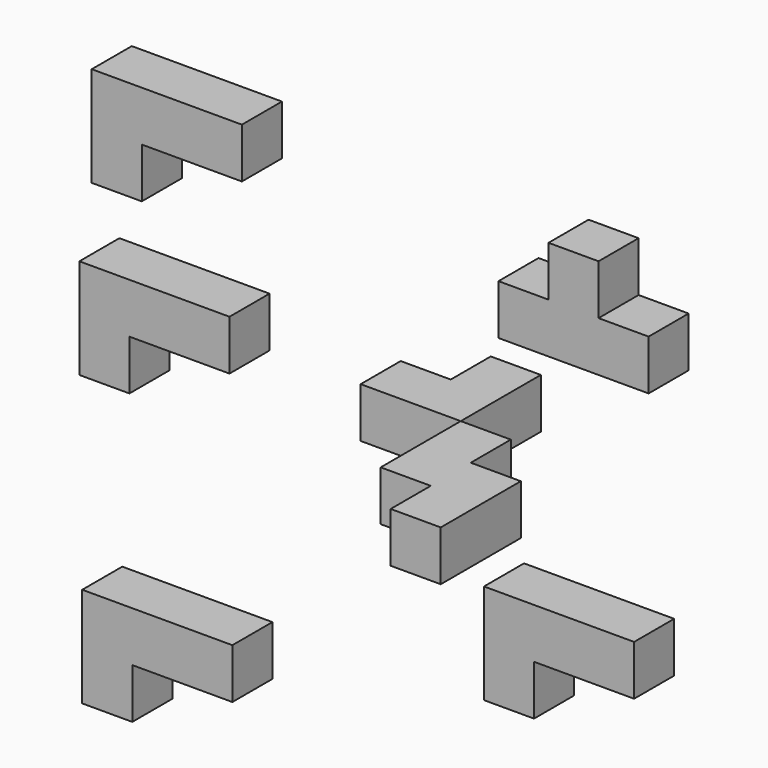
from build123d import *

# Parameters (mm, degrees)
F0_W      = 20
F0_H      = 30
F1_DEPTH  = 10
F3_W      = 20
F3_H      = 20
F4_DEPTH  = 10
F6_W      = 10
F6_H      = 10
F7_DEPTH  = 10
F2_W      = 10
F2_H      = 10
F8_DEPTH  = 10
F9_W      = 30
F9_H      = 20
F10_DEPTH = 10
F11_W     = 20
F11_H     = 10
F12_DEPTH = 10
F13_W     = 30
F13_H     = 20
F14_DEPTH = 10
F15_W     = 20
F15_H     = 10
F16_DEPTH = 10
F17_W     = 30
F17_H     = 20
F18_DEPTH = 10
F19_W     = 10
F19_H     = 10
F20_DEPTH = 10
F21_W     = 30
F21_H     = 20
F22_DEPTH = 10
F23_W     = 30
F23_H     = 20
F24_DEPTH = 10
F25_W     = 20
F25_H     = 10
F26_DEPTH = 10
F27_W     = 20
F27_H     = 10
F28_DEPTH = 10


with BuildPart() as f1:
    # F0 (on Top) → F1 (new body)
    with BuildSketch(Plane.XY):
        with Locations((10, -15)):
            Rectangle(F0_W, F0_H)
    extrude(amount=F1_DEPTH)

    # F2 (on face) → F8 (cut)
    with BuildSketch(Plane.XY.offset(10)):
        with Locations((15, -5)):
            Rectangle(F2_W, F2_H)
        with Locations((5, -25)):
            Rectangle(F2_W, F2_H)
    extrude(amount=-F8_DEPTH, mode=Mode.SUBTRACT)


with BuildPart() as f4:
    # F3 (on Top) → F4 (new body)
    with BuildSketch(Plane.XY):
        with Locations((-10, 10)):
            Rectangle(F3_W, F3_H)
    extrude(amount=F4_DEPTH)

    # F6 (on face) → F7 (cut)
    with BuildSketch(Plane.XY.offset(10)):
        with Locations((-15, 15)):
            Rectangle(F6_W, F6_H)
    extrude(amount=-F7_DEPTH, mode=Mode.SUBTRACT)


with BuildPart() as f10:
    # F9 (on Front) → F10 (new body)
    with BuildSketch(Plane.XZ):
        with Locations((-53.2064592838, 10)):
            Rectangle(F9_W, F9_H)
    extrude(amount=F10_DEPTH)

    # F11 (on face) → F12 (cut)
    with BuildSketch(Plane.XZ.offset(10)):
        with Locations((-48.2064592838, 5)):
            Rectangle(F11_W, F11_H)
    extrude(amount=-F12_DEPTH, mode=Mode.SUBTRACT)


with BuildPart() as f14:
    # F13 (on Front) → F14 (new body)
    with BuildSketch(Plane.XZ):
        with Locations((-52.6328837872, -47.5899481773)):
            Rectangle(F13_W, F13_H)
    extrude(amount=F14_DEPTH)

    # F15 (on face) → F16 (cut)
    with BuildSketch(Plane.XZ.offset(10)):
        with Locations((-47.6328837872, -52.5899481773)):
            Rectangle(F15_W, F15_H)
    extrude(amount=-F16_DEPTH, mode=Mode.SUBTRACT)


with BuildPart() as f18:
    # F17 (on Front) → F18 (new body)
    with BuildSketch(Plane.XZ):
        with Locations((30.5351590365, 43.7379798293)):
            Rectangle(F17_W, F17_H)
    extrude(amount=F18_DEPTH)

    # F19 (on face) → F20 (cut)
    with BuildSketch(Plane.XZ.offset(10)):
        with Locations((20.5351590365, 48.7379798293)):
            Rectangle(F19_W, F19_H)
        with Locations((40.5351590365, 48.7379798293)):
            Rectangle(F19_W, F19_H)
    extrude(amount=-F20_DEPTH, mode=Mode.SUBTRACT)


with BuildPart() as f22:
    # F21 (on Front) → F22 (new body)
    with BuildSketch(Plane.XZ):
        with Locations((-50.7335147262, 44.5948152244)):
            Rectangle(F21_W, F21_H)
    extrude(amount=F22_DEPTH)

    # F25 (on face) → F26 (cut)
    with BuildSketch(Plane.XZ.offset(10)):
        with Locations((-45.7335147262, 39.5948152244)):
            Rectangle(F25_W, F25_H)
    extrude(amount=-F26_DEPTH, mode=Mode.SUBTRACT)


with BuildPart() as f24:
    # F23 (on Front) → F24 (new body)
    with BuildSketch(Plane.XZ):
        with Locations((27.6432627439, -20.9057831764)):
            Rectangle(F23_W, F23_H)
    extrude(amount=F24_DEPTH)

    # F27 (on face) → F28 (cut)
    with BuildSketch(Plane.XZ.offset(10)):
        with Locations((32.6432627439, -25.9057831764)):
            Rectangle(F27_W, F27_H)
    extrude(amount=-F28_DEPTH, mode=Mode.SUBTRACT)


solid = Compound([f1.part, f4.part, f10.part, f14.part, f18.part, f22.part, f24.part])
